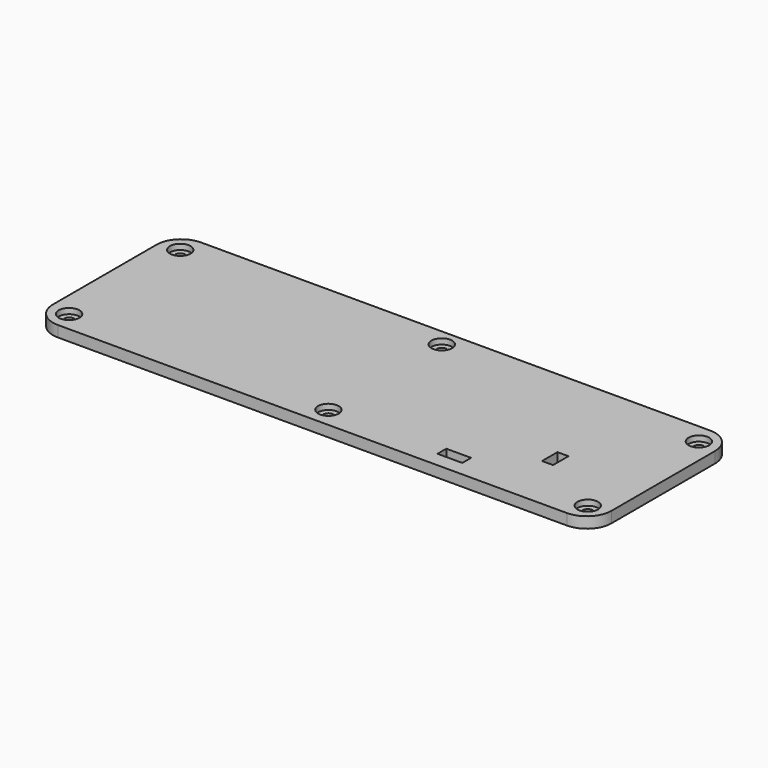
from build123d import *

# Parameters (mm, degrees)
F0_R     = 3.75
F0_W     = 9
F0_H     = 4
F0_W_2   = 4
F0_H_2   = 7
F1_DEPTH = 4
F0_R_2   = 1.75
F2_DEPTH = 2


with BuildPart() as f1:
    # F0 (on Top) → F1 (new body)
    with BuildSketch(Plane.XY):
        with BuildLine():
            Line((-92.5, -32.5), (92.5, -32.5))
            ThreePointArc((92.5, -32.5), (98.863961, -29.863961), (101.5, -23.5))
            Line((101.5, -23.5), (101.5, 23.5))
            ThreePointArc((101.5, 23.5), (98.863961, 29.863961), (92.5, 32.5))
            Line((92.5, 32.5), (-92.5, 32.5))
            ThreePointArc((-92.5, 32.5), (-98.863961, 29.863961), (-101.5, 23.5))
            Line((-101.5, 23.5), (-101.5, -23.5))
            ThreePointArc((-101.5, -23.5), (-98.863961, -29.863961), (-92.5, -32.5))
        make_face()
        with Locations((-94.25, -25.25)):
            Circle(F0_R, mode=Mode.SUBTRACT)
        with Locations((0, -25.25)):
            Circle(F0_R, mode=Mode.SUBTRACT)
        with Locations((45.54334, -25)):
            Rectangle(F0_W, F0_H, mode=Mode.SUBTRACT)
        with Locations((94.25, -25.25)):
            Circle(F0_R, mode=Mode.SUBTRACT)
        with Locations((68.991225, -8.446518)):
            Rectangle(F0_W_2, F0_H_2, mode=Mode.SUBTRACT)
        with Locations((-94.25, 25.25)):
            Circle(F0_R, mode=Mode.SUBTRACT)
        with Locations((0, 26.25)):
            Circle(F0_R, mode=Mode.SUBTRACT)
        with Locations((94.25, 25.25)):
            Circle(F0_R, mode=Mode.SUBTRACT)
    extrude(amount=F1_DEPTH)

    # F0 (on Top) → F2 (join)
    with BuildSketch(Plane.XY):
        with Locations((94.25, -25.25)):
            Circle(F0_R)
        with Locations((94.25, -25.25)):
            Circle(F0_R_2, mode=Mode.SUBTRACT)
        with Locations((0, -25.25)):
            Circle(F0_R)
        with Locations((0, -25.25)):
            Circle(F0_R_2, mode=Mode.SUBTRACT)
        with Locations((0, 26.25)):
            Circle(F0_R)
        with Locations((0, 26.25)):
            Circle(F0_R_2, mode=Mode.SUBTRACT)
        with Locations((94.25, 25.25)):
            Circle(F0_R)
        with Locations((94.25, 25.25)):
            Circle(F0_R_2, mode=Mode.SUBTRACT)
        with Locations((-94.25, -25.25)):
            Circle(F0_R)
        with Locations((-94.25, -25.25)):
            Circle(F0_R_2, mode=Mode.SUBTRACT)
        with Locations((-94.25, 25.25)):
            Circle(F0_R)
        with Locations((-94.25, 25.25)):
            Circle(F0_R_2, mode=Mode.SUBTRACT)
    extrude(amount=F2_DEPTH)


solid = f1.part
